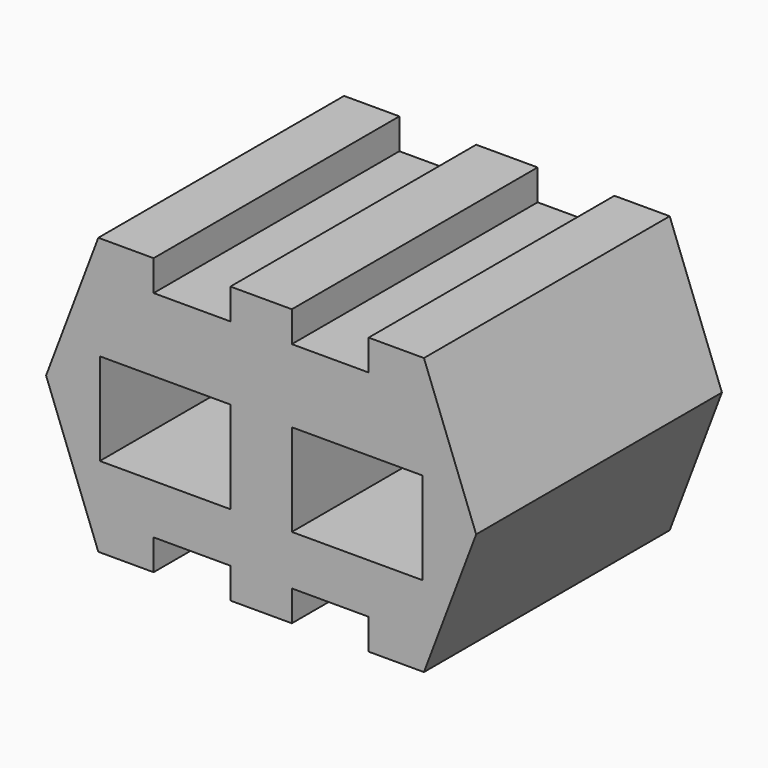
from build123d import *

# Parameters (mm, degrees)
F0_W     = 53.975
F0_H     = 38.1
F1_DEPTH = 127


with BuildPart() as f1:
    # F0 (on Front) → F1 (new body)
    with BuildSketch(Plane.XZ):
        Polygon((12.7, 76.2), (0, 76.2), (-12.7, 76.2), (-12.7, 63.5), (-44.45, 63.5), (-44.45, 76.2), (-67.31, 76.2), (-88.9, 19.05), (-67.31, -38.1), (-44.45, -38.1), (-44.45, -25.4), (-12.7, -25.4), (-12.7, -38.1), (0, -38.1), (12.7, -38.1), (12.7, -25.4), (44.45, -25.4), (44.45, -38.1), (67.31, -38.1), (88.9, 19.05), (67.31, 76.2), (44.45, 76.2), (44.45, 63.5), (12.7, 63.5), align=None)
        with Locations((-39.6875, 14.209682)):
            Rectangle(F0_W, F0_H, mode=Mode.SUBTRACT)
        with Locations((39.6875, 14.209682)):
            Rectangle(F0_W, F0_H, mode=Mode.SUBTRACT)
    extrude(amount=F1_DEPTH)


solid = f1.part
